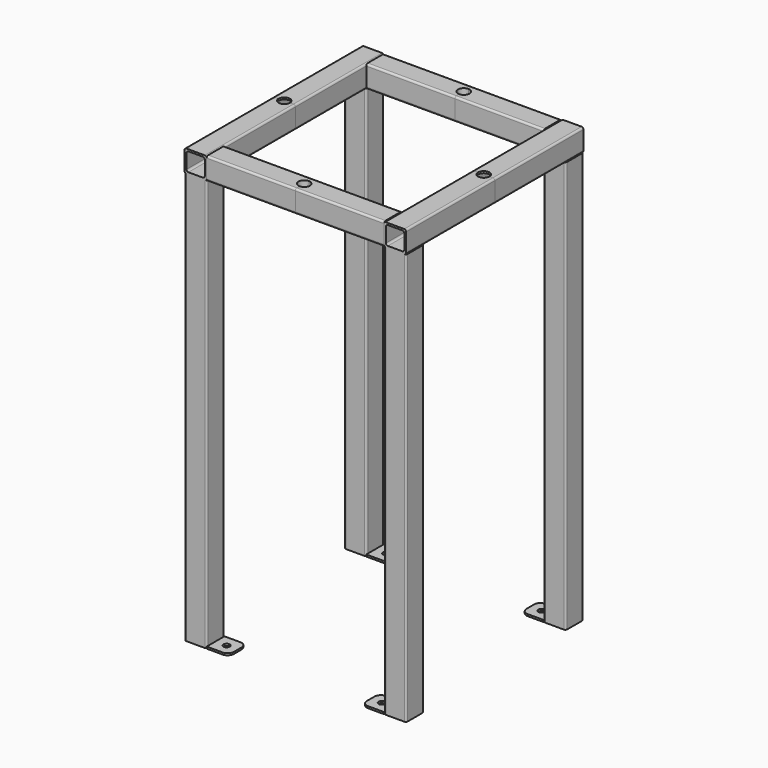
from build123d import *

# Parameters (mm, degrees)
F1_DEPTH  = 650
F2_W      = 35
F2_H      = 3
F3_DEPTH  = 35
F4_R      = 10
F6_D      = 10
F6_DEPTH  = 3
F6_TIP    = 3.0043030951
F9_DEPTH  = 175
F11_DEPTH = 140
F18_D     = 18
F18_2_D   = 18
F18_3_D   = 18
F18_4_D   = 18
F18_5_D   = 18
F18_6_D   = 18
F18_7_D   = 18
F18_8_D   = 18


with BuildPart() as f1:
    # F0 (on Top) → F1 (new body)
    with BuildSketch(Plane.XY):
        with BuildLine():
            ThreePointArc((0, 3), (0.8786796564, 0.8786796564), (3, 0))
            Line((3, 0), (32, 0))
            ThreePointArc((32, 0), (34.1213203436, 0.8786796564), (35, 3))
            Line((35, 3), (35, 32))
            ThreePointArc((35, 32), (34.1213203436, 34.1213203436), (32, 35))
            Line((32, 35), (3, 35))
            ThreePointArc((3, 35), (0.8786796564, 34.1213203436), (0, 32))
            Line((0, 32), (0, 3))
        make_face()
    extrude(amount=F1_DEPTH)

    # F2 (on Right) → F3 (join)
    with BuildSketch(Plane.YZ):
        with Locations((17.5, 1.5)):
            Rectangle(F2_W, F2_H)
    extrude(amount=-F3_DEPTH)

    # F4
    f4_edges = [f1.edges().sort_by_distance(p)[0] for p in [
        (-35, 0, 1.5),
        (-35, 35, 1.5),
    ]]
    fillet(f4_edges, radius=F4_R)

    # F6
    with Locations(Plane.XY.offset(3)):
        with Locations((-17.5, 17.5)):
            Hole(F6_D / 2, depth=F6_DEPTH)
            with Locations((0, 0, -(F6_DEPTH + F6_TIP / 2))):  # 118° drill point
                Cone(0, F6_D / 2, F6_TIP, mode=Mode.SUBTRACT)

    # F8 (on offset) → F9 (join)
    with BuildSketch(Plane.XZ):
        with BuildLine():
            ThreePointArc((0, 653), (0.8786796564, 650.8786796564), (3, 650))
            Line((3, 650), (32, 650))
            ThreePointArc((32, 650), (34.1213203436, 650.8786796564), (35, 653))
            Line((35, 653), (35, 682))
            ThreePointArc((35, 682), (34.1213203436, 684.1213203436), (32, 685))
            Line((32, 685), (3, 685))
            ThreePointArc((3, 685), (0.8786796564, 684.1213203436), (0, 682))
            Line((0, 682), (0, 653))
        make_face()
        with BuildLine():
            ThreePointArc((3, 679), (3.8786796564, 681.1213203436), (6, 682))
            Line((6, 682), (29, 682))
            ThreePointArc((29, 682), (31.1213203436, 681.1213203436), (32, 679))
            Line((32, 679), (32, 656))
            ThreePointArc((32, 656), (31.1213203436, 653.8786796564), (29, 653))
            Line((29, 653), (6, 653))
            ThreePointArc((6, 653), (3.8786796564, 653.8786796564), (3, 656))
            Line((3, 656), (3, 679))
        make_face(mode=Mode.SUBTRACT)
    extrude(amount=-F9_DEPTH)


with BuildPart() as f11:
    # F10 (on Right) → F11 (new body)
    with BuildSketch(Plane.YZ):
        with BuildLine():
            Line((3, 650), (32, 650))
            ThreePointArc((32, 650), (34.1213203436, 650.8786796564), (35, 653))
            Line((35, 653), (35, 682))
            ThreePointArc((35, 682), (34.1213203436, 684.1213203436), (32, 685))
            Line((32, 685), (3, 685))
            ThreePointArc((3, 685), (0.8786796564, 684.1213203436), (0, 682))
            Line((0, 682), (0, 653))
            ThreePointArc((0, 653), (0.8786796564, 650.8786796564), (3, 650))
        make_face()
    extrude(amount=-F11_DEPTH)


with BuildPart() as f13_1:
    # F13: instance of F11
    add(f11.part.mirror(Plane(origin=(-140, 17.5, 667.5), x_dir=(0, 1, 0), z_dir=(-1, 0, 0))))


with BuildPart() as f13_2:
    # F13: instance of F1
    add(f1.part.mirror(Plane(origin=(-140, 17.5, 667.5), x_dir=(0, 1, 0), z_dir=(-1, 0, 0))))


with BuildPart() as f15_1:
    # F15: instance of F1
    add(f1.part.mirror(Plane(origin=(17.5, 175, 667.5), x_dir=(1, 0, 0), z_dir=(0, 1, 0))))

    # F18#5 (through all)
    with Locations(Plane.XY.offset(685)):
        with Locations((-297.5, 175), (-140, 332.5), (17.5, 175), (-140, 17.5)):
            Hole(F18_5_D / 2)


with BuildPart() as f15_2:
    # F15: instance of F11
    add(f11.part.mirror(Plane(origin=(17.5, 175, 667.5), x_dir=(1, 0, 0), z_dir=(0, 1, 0))))

    # F18#6 (through all)
    with Locations(Plane.XY.offset(685)):
        with Locations((-297.5, 175), (-140, 332.5), (17.5, 175), (-140, 17.5)):
            Hole(F18_6_D / 2)


with BuildPart() as f15_3:
    # F15: instance of F13_1
    add(f13_1.part.mirror(Plane(origin=(17.5, 175, 667.5), x_dir=(1, 0, 0), z_dir=(0, 1, 0))))

    # F18#7 (through all)
    with Locations(Plane.XY.offset(685)):
        with Locations((-297.5, 175), (-140, 332.5), (17.5, 175), (-140, 17.5)):
            Hole(F18_7_D / 2)


with BuildPart() as f15_4:
    # F15: instance of F13_2
    add(f13_2.part.mirror(Plane(origin=(17.5, 175, 667.5), x_dir=(1, 0, 0), z_dir=(0, 1, 0))))

    # F18#8 (through all)
    with Locations(Plane.XY.offset(685)):
        with Locations((-297.5, 175), (-140, 332.5), (17.5, 175), (-140, 17.5)):
            Hole(F18_8_D / 2)


with BuildPart() as f1_1:
    add(f1.part)

    # F18 (through all)
    with Locations(Plane.XY.offset(685)):
        with Locations((-297.5, 175), (-140, 332.5), (17.5, 175), (-140, 17.5)):
            Hole(F18_D / 2)


with BuildPart() as f11_1:
    add(f11.part)

    # F18#2 (through all)
    with Locations(Plane.XY.offset(685)):
        with Locations((-297.5, 175), (-140, 332.5), (17.5, 175), (-140, 17.5)):
            Hole(F18_2_D / 2)


with BuildPart() as f13_1_1:
    add(f13_1.part)

    # F18#3 (through all)
    with Locations(Plane.XY.offset(685)):
        with Locations((-297.5, 175), (-140, 332.5), (17.5, 175), (-140, 17.5)):
            Hole(F18_3_D / 2)


with BuildPart() as f13_2_1:
    add(f13_2.part)

    # F18#4 (through all)
    with Locations(Plane.XY.offset(685)):
        with Locations((-297.5, 175), (-140, 332.5), (17.5, 175), (-140, 17.5)):
            Hole(F18_4_D / 2)


solid = Compound([f15_1.part, f15_2.part, f15_3.part, f15_4.part, f1_1.part, f11_1.part, f13_1_1.part, f13_2_1.part])
